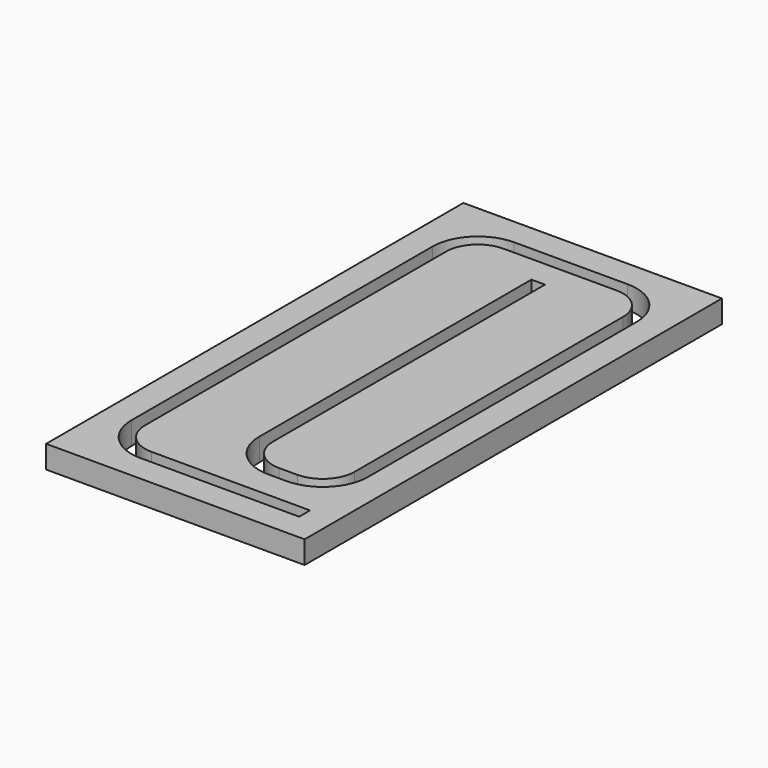
from build123d import *

# Parameters (mm, degrees)
F0_W     = 114
F0_H     = 230
F1_DEPTH = 10


with BuildPart() as f1:
    # F0 (on Top) → F1 (new body)
    with BuildSketch(Plane.XY):
        with Locations((57, 115)):
            Rectangle(F0_W, F0_H)
        with BuildLine():
            Line((12, 32), (12, 198))
            ThreePointArc((12, 198), (17.857864, 212.142136), (32, 218))
            Line((32, 218), (82, 218))
            ThreePointArc((82, 218), (96.142136, 212.142136), (102, 198))
            Line((102, 198), (102, 50))
            ThreePointArc((102, 50), (96.142136, 35.857864), (82, 30))
            Line((82, 30), (74, 30))
            ThreePointArc((74, 30), (59.857864, 35.857864), (54, 50))
            Line((54, 50), (54, 200))
            Line((54, 200), (60, 200))
            Line((60, 200), (60, 50))
            ThreePointArc((60, 50), (64.100505, 40.100505), (74, 36))
            Line((74, 36), (82, 36))
            ThreePointArc((82, 36), (91.899495, 40.100505), (96, 50))
            Line((96, 50), (96, 198))
            ThreePointArc((96, 198), (91.899495, 207.899495), (82, 212))
            Line((82, 212), (32, 212))
            ThreePointArc((32, 212), (22.100505, 207.899495), (18, 198))
            Line((18, 198), (18, 32))
            ThreePointArc((18, 32), (22.100505, 22.100505), (32, 18))
            Line((32, 18), (102, 18))
            Line((102, 18), (102, 12))
            Line((102, 12), (82, 12))
            Line((82, 12), (32, 12))
            ThreePointArc((32, 12), (17.857864, 17.857864), (12, 32))
        make_face(mode=Mode.SUBTRACT)
    extrude(amount=F1_DEPTH)


solid = f1.part
